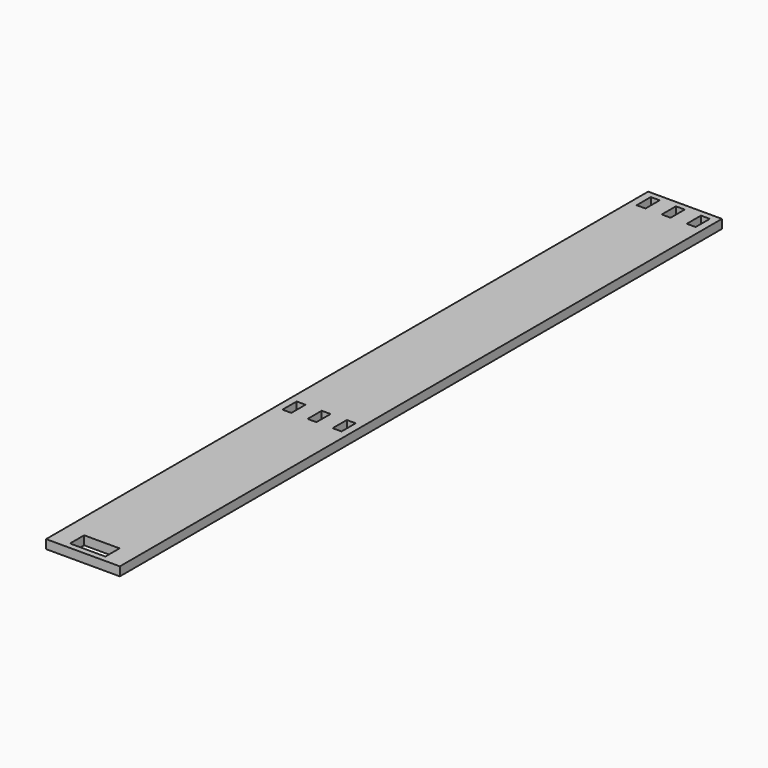
from build123d import *

# Parameters (mm, degrees)
F0_W     = 3
F0_H     = 6
F1_DEPTH = 1.5


with BuildPart() as f1:
    # F0 (on Top) → F1 (new body, symmetric)
    with BuildSketch(Plane.XY):
        Polygon((-12.5, 7), (-12.5, 0), (-12.5, -98), (12.5, -98), (12.5, 0), (12.5, 7), (12.5, 157), (10, 157), (-12.5, 157), align=None)
        with Locations((-8.5, 2)):
            Rectangle(F0_W, F0_H, mode=Mode.SUBTRACT)
        Polygon((-6, -90), (0, -90), (6, -90), (6, -96), (-6, -96), align=None, mode=Mode.SUBTRACT)
        with Locations((0, 2)):
            Rectangle(F0_W, F0_H, mode=Mode.SUBTRACT)
        with Locations((8.5, 2)):
            Rectangle(F0_W, F0_H, mode=Mode.SUBTRACT)
        with Locations((-8.5, 152)):
            Rectangle(F0_W, F0_H, mode=Mode.SUBTRACT)
        with Locations((0, 152)):
            Rectangle(F0_W, F0_H, mode=Mode.SUBTRACT)
        with Locations((8.5, 152)):
            Rectangle(F0_W, F0_H, mode=Mode.SUBTRACT)
    extrude(amount=F1_DEPTH, both=True)


solid = f1.part
